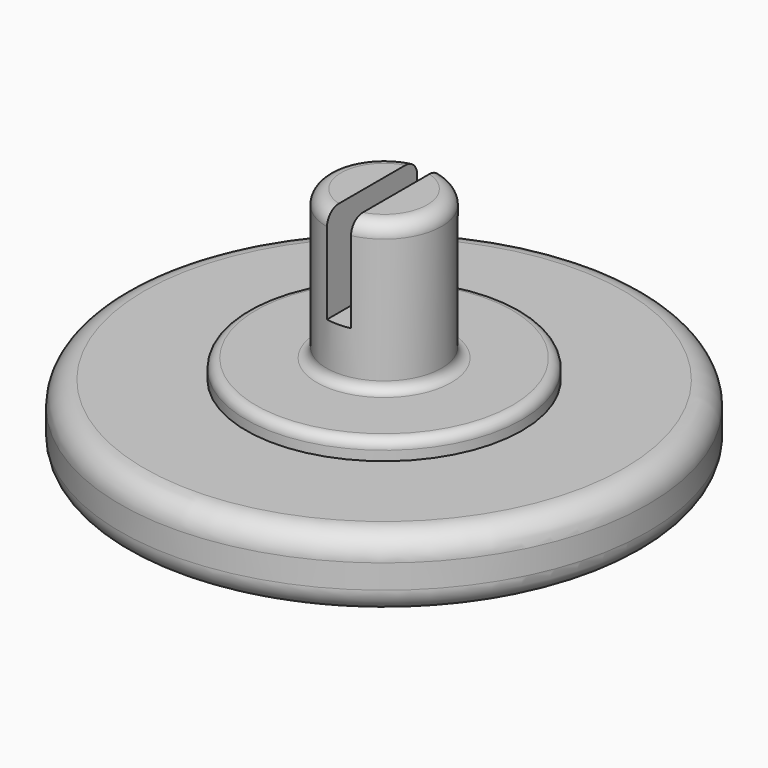
from build123d import *

# Parameters (mm, degrees)
F0_R      = 11
F1_DEPTH  = 3
F2_R      = 5.75
F3_DEPTH  = 0.8
F4_R      = 2.4
F5_DEPTH  = 6.2
F6_R      = 0.5
F9_DEPTH  = 7
F10_W     = 1
F10_H     = 8.5789565172
F11_DEPTH = 4
F12_R     = 0.6
F13_R     = 1
F14_R     = 0.4


with BuildPart() as f1:
    # F0 (on Top) → F1 (new body)
    with BuildSketch(Plane.XY):
        Circle(F0_R)
    extrude(amount=F1_DEPTH)

    # F2 (on face) → F3 (join)
    with BuildSketch(Plane.XY.offset(3)):
        Circle(F2_R)
    extrude(amount=F3_DEPTH)

    # F4 (on face) → F5 (join)
    with BuildSketch(Plane.XY.offset(3.8)):
        Circle(F4_R)
    extrude(amount=F5_DEPTH)

    # F6 (on face) → F9 (cut)
    with BuildSketch(Plane.XY.offset(10)):
        Circle(F6_R)
    extrude(amount=-F9_DEPTH, mode=Mode.SUBTRACT)

    # F10 (on face) → F11 (cut)
    with BuildSketch(Plane.XY.offset(10)):
        Rectangle(F10_W, F10_H)
    extrude(amount=-F11_DEPTH, mode=Mode.SUBTRACT)

    # F12
    f12_edges = [f1.edges().sort_by_distance(p)[0] for p in [
        (-2.4, 0, 10),
        (1.865476, -1.509967, 10),
        (1.865476, 1.509967, 10),
    ]]
    fillet(f12_edges, radius=F12_R)

    # F13
    f13_edges = [f1.edges().sort_by_distance(p)[0] for p in [
        (-11, 0, 3),
        (-11, 0, 0),
    ]]
    fillet(f13_edges, radius=F13_R)

    # F14
    f14_edges = [f1.edges().sort_by_distance(p)[0] for p in [
        (-5.75, 0, 3.8),
        (-2.4, 0, 3.8),
    ]]
    fillet(f14_edges, radius=F14_R)


solid = f1.part
